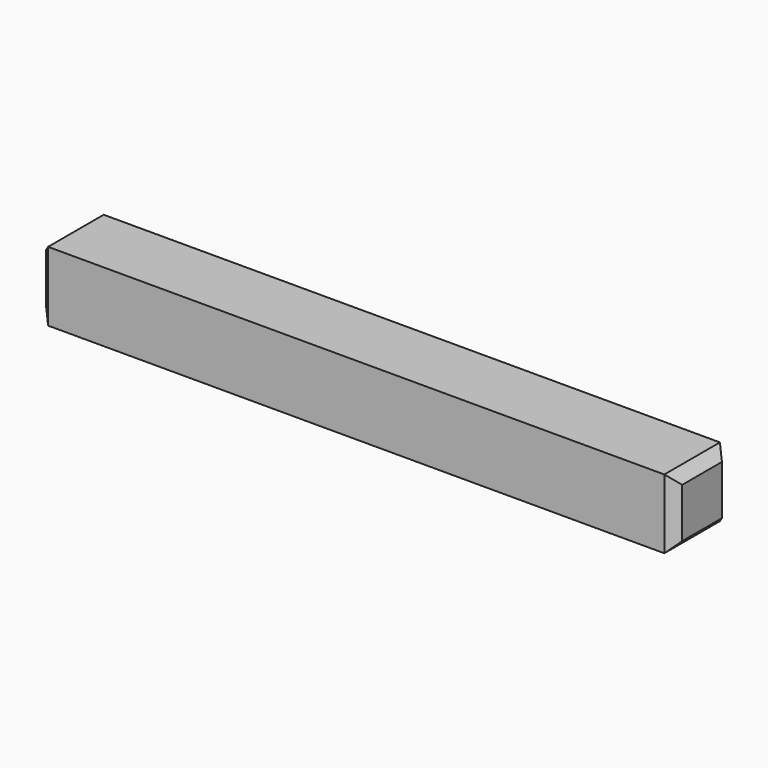
from build123d import *

# Parameters (mm, degrees)
F0_W     = 64.052424
F0_H     = 6.985887
F1_DEPTH = 7
F2_SIZE  = 1
F3_SIZE  = 1


with BuildPart() as f1:
    # F0 (on Front) → F1 (new body)
    with BuildSketch(Plane.XZ):
        with Locations((-1.270161, 3.492943)):
            Rectangle(F0_W, F0_H)
    extrude(amount=F1_DEPTH)

    # F2
    f2_edges = [f1.edges().sort_by_distance(p)[0] for p in [
        (30.756051, -3.5, 6.985887),
        (30.756051, -7, 3.492943),
        (30.756051, -3.5, 0),
        (30.756051, 0, 3.492943),
    ]]
    chamfer(f2_edges, length=F2_SIZE)

    # F3
    f3_edges = [f1.edges().sort_by_distance(p)[0] for p in [
        (-33.296373, -3.5, 6.985887),
        (-33.296373, 0, 3.492943),
        (-33.296373, -3.5, 0),
        (-33.296373, -7, 3.492943),
    ]]
    chamfer(f3_edges, length=F3_SIZE)


solid = f1.part
